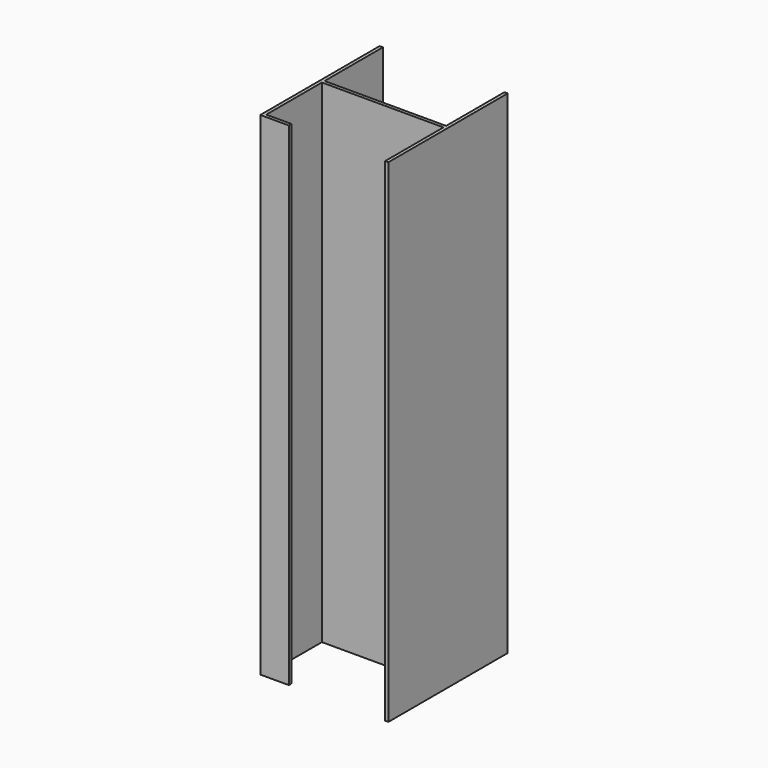
from build123d import *

# Parameters (mm, degrees)
F0_W     = 370
F0_H     = 10
F1_DEPTH = 1500


with BuildPart() as f1:
    # F0 (on Top) → F1 (new body)
    with BuildSketch(Plane.XY):
        Polygon((185, -227), (195, -227), (195, 227), (185, 227), (185, 217), (185, 5), (185, -5), (185, -217), align=None)
        Rectangle(F0_W, F0_H)
        Polygon((-185, -217), (-185, -5), (-185, 5), (-185, 217), (-185, 227), (-195, 227), (-195, -227), (-108.172141, -227), (-108.172141, -217), align=None)
    extrude(amount=F1_DEPTH)


solid = f1.part
